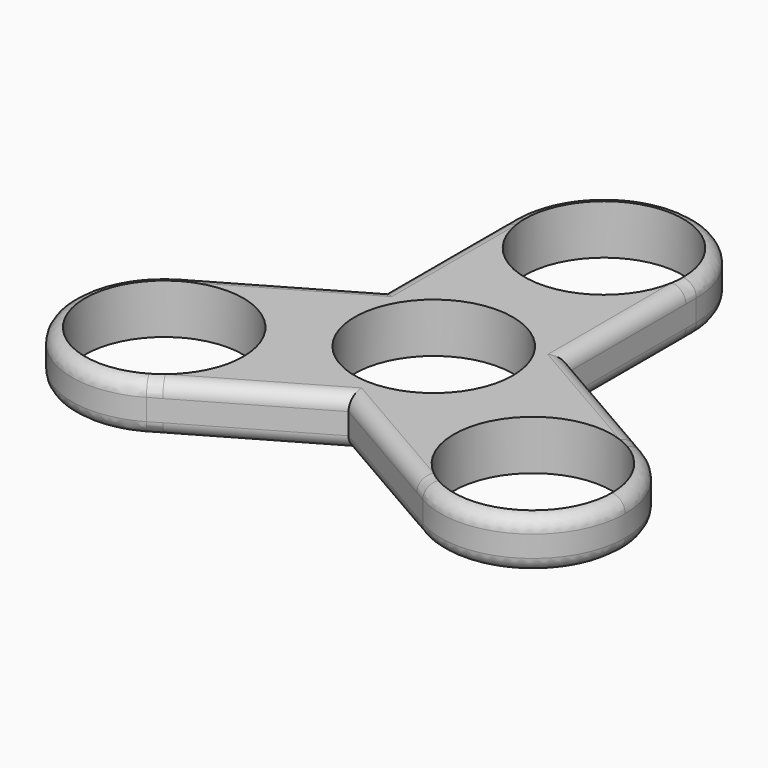
from build123d import *

# Parameters (mm, degrees)
F0_R     = 11.15
F1_DEPTH = 7
F2_R     = 2


with BuildPart() as f1:
    # F0 (on Top) → F1 (new body)
    with BuildSketch(Plane.XY):
        with BuildLine():
            ThreePointArc((38.9807621135, -15), (37.2390923627, -8.5), (32.4807621135, -3.7416697508))
            ThreePointArc((32.4807621135, -3.7416697508), (14.7224318643, -8.5), (19.4807621135, -26.2583302492))
            ThreePointArc((19.4807621135, -26.2583302492), (32.4807621135, -26.2583302492), (38.9807621135, -15))
        make_face()
        with Locations((25.9807621135, -15)):
            Circle(F0_R, mode=Mode.SUBTRACT)
        with BuildLine():
            Line((13, 7.5055534995), (13, 0))
            ThreePointArc((13, 0), (11.2583302492, -6.5), (6.5, -11.2583302492))
            Line((6.5, -11.2583302492), (0, -15.0111069989))
            Line((0, -15.0111069989), (19.4807621135, -26.2583302492))
            ThreePointArc((19.4807621135, -26.2583302492), (14.7224318643, -8.5), (32.4807621135, -3.7416697508))
            Line((32.4807621135, -3.7416697508), (13, 7.5055534995))
        make_face()
        with BuildLine():
            Line((0, -15.0111069989), (6.5, -11.2583302492))
            ThreePointArc((6.5, -11.2583302492), (0, -13), (-6.5, -11.2583302492))
            Line((-6.5, -11.2583302492), (0, -15.0111069989))
        make_face()
        with BuildLine():
            ThreePointArc((-13, 0), (-11.2583302492, 6.5), (-6.5, 11.2583302492))
            Line((-6.5, 11.2583302492), (-13, 7.5055534995))
            Line((-13, 7.5055534995), (-13, 0))
        make_face()
        with BuildLine():
            ThreePointArc((6.5, 11.2583302492), (11.2583302492, 6.5), (13, 0))
            Line((13, 0), (13, 7.5055534995))
            Line((13, 7.5055534995), (6.5, 11.2583302492))
        make_face()
        with BuildLine():
            ThreePointArc((6.5, -11.2583302492), (11.2583302492, -6.5), (13, 0))
            ThreePointArc((13, 0), (11.2583302492, 6.5), (6.5, 11.2583302492))
            ThreePointArc((6.5, 11.2583302492), (0, 13), (-6.5, 11.2583302492))
            ThreePointArc((-6.5, 11.2583302492), (-11.2583302492, 6.5), (-13, 0))
            ThreePointArc((-13, 0), (-11.2583302492, -6.5), (-6.5, -11.2583302492))
            ThreePointArc((-6.5, -11.2583302492), (0, -13), (6.5, -11.2583302492))
        make_face()
        Circle(F0_R, mode=Mode.SUBTRACT)
        with BuildLine():
            ThreePointArc((-32.4807621135, -3.7416697508), (-37.2390923627, -21.5), (-19.4807621135, -26.2583302492))
            ThreePointArc((-19.4807621135, -26.2583302492), (-14.7224318643, -21.5), (-12.9807621135, -15))
            ThreePointArc((-12.9807621135, -15), (-19.4807621135, -3.7416697508), (-32.4807621135, -3.7416697508))
        make_face()
        with Locations((-25.9807621135, -15)):
            Circle(F0_R, mode=Mode.SUBTRACT)
        with BuildLine():
            Line((0, -15.0111069989), (-6.5, -11.2583302492))
            ThreePointArc((-6.5, -11.2583302492), (-11.2583302492, -6.5), (-13, 0))
            Line((-13, 0), (-13, 7.5055534995))
            Line((-13, 7.5055534995), (-32.4807621135, -3.7416697508))
            ThreePointArc((-32.4807621135, -3.7416697508), (-19.4807621135, -3.7416697508), (-12.9807621135, -15))
            ThreePointArc((-12.9807621135, -15), (-14.7224318643, -21.5), (-19.4807621135, -26.2583302492))
            Line((-19.4807621135, -26.2583302492), (0, -15.0111069989))
        make_face()
        with BuildLine():
            ThreePointArc((-13, 30), (0, 17), (13, 30))
            ThreePointArc((13, 30), (0, 43), (-13, 30))
        make_face()
        with Locations((0, 30)):
            Circle(F0_R, mode=Mode.SUBTRACT)
        with BuildLine():
            ThreePointArc((-6.5, 11.2583302492), (0, 13), (6.5, 11.2583302492))
            Line((6.5, 11.2583302492), (13, 7.5055534995))
            Line((13, 7.5055534995), (13, 30))
            ThreePointArc((13, 30), (0, 17), (-13, 30))
            Line((-13, 30), (-13, 7.5055534995))
            Line((-13, 7.5055534995), (-6.5, 11.2583302492))
        make_face()
    extrude(amount=F1_DEPTH)

    # F2
    f2_edges = [f1.edges().sort_by_distance(p)[0] for p in [
        (22.740381, 1.881942, 7),
        (37.239092, -21.5, 7),
        (37.239092, -21.5, 0),
        (22.740381, 1.881942, 0),
        (13, 18.752777, 7),
        (13, 18.752777, 0),
        (-22.740381, 1.881942, 7),
        (-22.740381, 1.881942, 0),
    ]]
    fillet(f2_edges, radius=F2_R)


solid = f1.part
